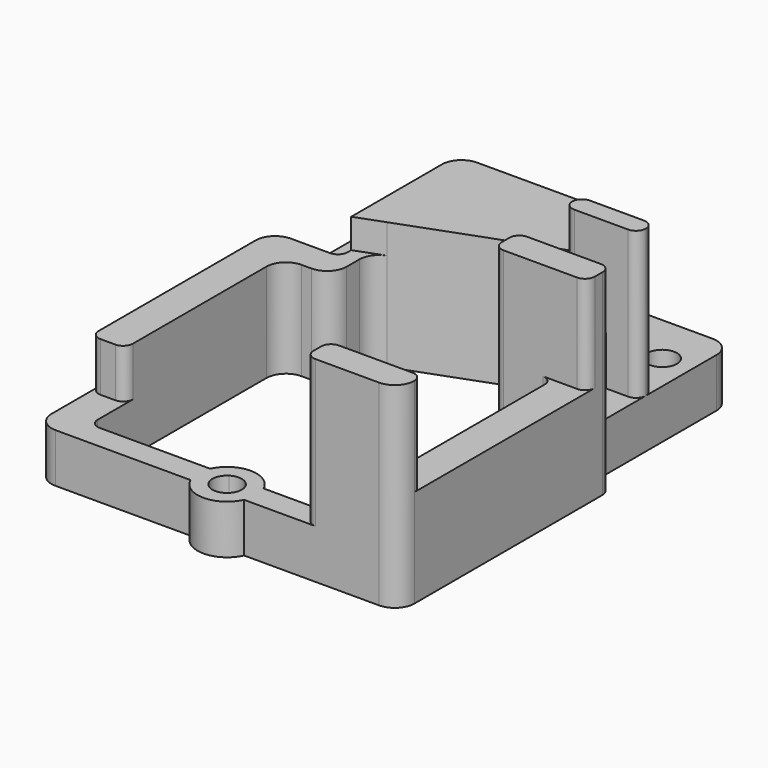
from build123d import *

# Parameters (mm, degrees)
F1_DEPTH = 2
F0_R     = 3
F0_R_2   = 1.5
F2_DEPTH = 5
F4_DEPTH = 5
F5_DEPTH = 8
F6_DEPTH = 15
F7_DEPTH = 15
F3_W     = 1
F3_H     = 6
F8_DEPTH = 5


with BuildPart() as f1:
    # F0 (on Top) → F1 (new body)
    with BuildSketch(Plane.XY):
        with BuildLine():
            Line((-14, -20), (-2.7258296596, -20))
            ThreePointArc((-2.7258296596, -20), (0, -18.2529376149), (2.7258296596, -20))
            Line((2.7258296596, -20), (14, -20))
            ThreePointArc((14, -20), (14.7071067812, -19.7071067812), (15, -19))
            Line((15, -19), (15, -15.5))
            ThreePointArc((15, -15.5), (14.4142135624, -16.9142135624), (13, -17.5))
            Line((13, -17.5), (-13, -17.5))
            ThreePointArc((-13, -17.5), (-14.4142135624, -16.9142135624), (-15, -15.5))
            Line((-15, -15.5), (-15, -19))
            ThreePointArc((-15, -19), (-14.7071067812, -19.7071067812), (-14, -20))
        make_face()
    extrude(amount=F1_DEPTH)

    # F0 (on Top) → F2 (join)
    with BuildSketch(Plane.XY):
        with BuildLine():
            ThreePointArc((16.5, 20.5), (15.9142135624, 21.9142135624), (14.5, 22.5))
            Line((14.5, 22.5), (-16.5, 22.5))
            ThreePointArc((-16.5, 22.5), (-17.9142135624, 21.9142135624), (-18.5, 20.5))
            Line((-18.5, 20.5), (-18.5, 17.3358949354))
            Line((-18.5, 17.3358949354), (-18.5, -20.5))
            ThreePointArc((-18.5, -20.5), (-17.9142135624, -21.9142135624), (-16.5, -22.5))
            Line((-16.5, -22.5), (-2.7285225687, -22.5))
            ThreePointArc((-2.7285225687, -22.5), (-2.9999982596, -21.2497061259), (-2.7258296596, -20))
            Line((-2.7258296596, -20), (-14, -20))
            ThreePointArc((-14, -20), (-14.7071067812, -19.7071067812), (-15, -19))
            Line((-15, -19), (-15, -15.5))
            Line((-15, -15.5), (-15, 2.5))
            ThreePointArc((-15, 2.5), (-14.4142135624, 3.9142135624), (-13, 4.5))
            Line((-13, 4.5), (-12, 4.5))
            ThreePointArc((-12, 4.5), (-10.5857864376, 5.0857864376), (-10, 6.5))
            Line((-10, 6.5), (-10, 8.1054256072))
            ThreePointArc((-10, 8.1054256072), (-9.6405519552, 9.2493614806), (-8.6914107177, 9.9821118409))
            Line((-8.6914107177, 9.9821118409), (6.3085892823, 15.5084276303))
            ThreePointArc((6.3085892823, 15.5084276303), (8.1439358734, 15.2722933519), (9, 13.6317413967))
            Line((9, 13.6317413967), (9, 2.5))
            ThreePointArc((9, 2.5), (9.2928932188, 1.7928932188), (10, 1.5))
            Line((10, 1.5), (14, 1.5))
            ThreePointArc((14, 1.5), (14.7071067812, 1.2071067812), (15, 0.5))
            Line((15, 0.5), (15, -15.5))
            Line((15, -15.5), (15, -19))
            ThreePointArc((15, -19), (14.7071067812, -19.7071067812), (14, -20))
            Line((14, -20), (2.7258296596, -20))
            ThreePointArc((2.7258296596, -20), (2.9306559828, -20.6116455515), (3, -21.2529376149))
            ThreePointArc((3, -21.2529376149), (2.9313450587, -21.8910725121), (2.7285225687, -22.5))
            Line((2.7285225687, -22.5), (16.5, -22.5))
            ThreePointArc((16.5, -22.5), (17.9142135624, -21.9142135624), (18.5, -20.5))
            Line((18.5, -20.5), (18.5, 3.5))
            ThreePointArc((18.5, 3.5), (18.2071067812, 4.2071067812), (17.5, 4.5))
            ThreePointArc((17.5, 4.5), (16.7928932188, 4.7928932188), (16.5, 5.5))
            Line((16.5, 5.5), (16.5, 17.3358949354))
            Line((16.5, 17.3358949354), (16.5, 20.5))
        make_face()
        with BuildLine():
            ThreePointArc((-12.5, 17.3358949354), (-15.5, 14.3358949354), (-18.5, 17.3358949354))
            ThreePointArc((-18.5, 17.3358949354), (-15.5, 20.3358949354), (-12.5, 17.3358949354))
        make_face(mode=Mode.SUBTRACT)
        with Locations((13.5, 17.3358949354)):
            Circle(F0_R, mode=Mode.SUBTRACT)
        with BuildLine():
            ThreePointArc((-2.7258296596, -20), (-2.9999982596, -21.2497061259), (-2.7285225687, -22.5))
            Line((-2.7285225687, -22.5), (-0.8335678783, -22.5))
            ThreePointArc((-0.8335678783, -22.5), (-1.4999905856, -21.2476231938), (-0.8247104541, -20))
            Line((-0.8247104541, -20), (-2.7258296596, -20))
        make_face()
        with BuildLine():
            Line((-0.8335678783, -22.5), (-2.7285225687, -22.5))
            ThreePointArc((-2.7285225687, -22.5), (0, -24.2529376149), (2.7285225687, -22.5))
            Line((2.7285225687, -22.5), (0.8335678783, -22.5))
            ThreePointArc((0.8335678783, -22.5), (0, -22.7529376149), (-0.8335678783, -22.5))
        make_face()
        with BuildLine():
            Line((0.8335678783, -22.5), (2.7285225687, -22.5))
            ThreePointArc((2.7285225687, -22.5), (2.9313450587, -21.8910725121), (3, -21.2529376149))
            ThreePointArc((3, -21.2529376149), (2.9306559828, -20.6116455515), (2.7258296596, -20))
            Line((2.7258296596, -20), (0.8247104541, -20))
            ThreePointArc((0.8247104541, -20), (1.3204290366, -20.5412725537), (1.5, -21.2529376149))
            ThreePointArc((1.5, -21.2529376149), (1.3229421411, -21.9599199989), (0.8335678783, -22.5))
        make_face()
        with BuildLine():
            ThreePointArc((2.7258296596, -20), (0, -18.2529376149), (-2.7258296596, -20))
            Line((-2.7258296596, -20), (-0.8247104541, -20))
            ThreePointArc((-0.8247104541, -20), (0, -19.7529376149), (0.8247104541, -20))
            Line((0.8247104541, -20), (2.7258296596, -20))
        make_face()
        with BuildLine():
            ThreePointArc((-12.5, 17.3358949354), (-15.5, 20.3358949354), (-18.5, 17.3358949354))
            ThreePointArc((-18.5, 17.3358949354), (-15.5, 14.3358949354), (-12.5, 17.3358949354))
        make_face()
        with Locations((-15.5, 17.3358949354)):
            Circle(F0_R_2, mode=Mode.SUBTRACT)
        with Locations((13.5, 17.3358949354)):
            Circle(F0_R)
        with Locations((13.5, 17.3358949354)):
            Circle(F0_R_2, mode=Mode.SUBTRACT)
    extrude(amount=F2_DEPTH)

    # F3 (on face) → F4 (join)
    with BuildSketch(Plane.XY.offset(5)):
        with BuildLine():
            ThreePointArc((-18.5, -14.5), (-18.2071067812, -15.2071067812), (-17.5, -15.5))
            Line((-17.5, -15.5), (-16, -15.5))
            ThreePointArc((-16, -15.5), (-15.2928932188, -15.2071067812), (-15, -14.5))
            Line((-15, -14.5), (-15, 2.5))
            ThreePointArc((-15, 2.5), (-14.4142135624, 3.9142135624), (-13, 4.5))
            Line((-13, 4.5), (-12, 4.5))
            ThreePointArc((-12, 4.5), (-10.5857864376, 5.0857864376), (-10, 6.5))
            Line((-10, 6.5), (-10, 8.1054256072))
            ThreePointArc((-10, 8.1054256072), (-9.6405519552, 9.2493614806), (-8.6914107177, 9.9821118409))
            Line((-8.6914107177, 9.9821118409), (-11.5, 8.9473684211))
            Line((-11.5, 8.9473684211), (-11.5, 8.5))
            ThreePointArc((-11.5, 8.5), (-11.7928932188, 7.7928932188), (-12.5, 7.5))
            Line((-12.5, 7.5), (-16.5, 7.5))
            ThreePointArc((-16.5, 7.5), (-17.9142135624, 6.9142135624), (-18.5, 5.5))
            Line((-18.5, 5.5), (-18.5, -14.5))
        make_face()
    extrude(amount=F4_DEPTH)

    # F3 (on face) → F5 (join)
    with BuildSketch(Plane.XY.offset(5)):
        with BuildLine():
            Line((4.5, 22.5), (-9.5, 22.5))
            ThreePointArc((-9.5, 22.5), (-10.9142135624, 21.9142135624), (-11.5, 20.5))
            Line((-11.5, 20.5), (-11.5, 8.9473684211))
            Line((-11.5, 8.9473684211), (-8.6914107177, 9.9821118409))
            Line((-8.6914107177, 9.9821118409), (6.3085892823, 15.5084276303))
            Line((6.3085892823, 15.5084276303), (6.5, 15.5789473684))
            Line((6.5, 15.5789473684), (6.5, 20.5))
            ThreePointArc((6.5, 20.5), (5.9142135624, 21.9142135624), (4.5, 22.5))
        make_face()
    extrude(amount=F5_DEPTH)

    # F3 (on face) → F6 (join)
    with BuildSketch(Plane.XY.offset(5)):
        with BuildLine():
            ThreePointArc((9, -21.5), (9.2928932188, -22.2071067812), (10, -22.5))
            Line((10, -22.5), (16.5, -22.5))
            ThreePointArc((16.5, -22.5), (17.9142135624, -21.9142135624), (18.5, -20.5))
            ThreePointArc((18.5, -20.5), (18.2071067812, -19.7928932188), (17.5, -19.5))
            Line((17.5, -19.5), (14.8660254038, -19.5))
            ThreePointArc((14.8660254038, -19.5), (14.5, -19.8660254038), (14, -20))
            Line((14, -20), (9.1339745962, -20))
            ThreePointArc((9.1339745962, -20), (9.0340741737, -20.2411809549), (9, -20.5))
            Line((9, -20.5), (9, -21.5))
        make_face()
        with BuildLine():
            ThreePointArc((10, -19.5), (9.5, -19.6339745962), (9.1339745962, -20))
            Line((9.1339745962, -20), (14, -20))
            ThreePointArc((14, -20), (14.5, -19.8660254038), (14.8660254038, -19.5))
            Line((14.8660254038, -19.5), (10, -19.5))
        make_face()
    extrude(amount=F6_DEPTH)

    # F3 (on face) → F7 (join)
    with BuildSketch(Plane.XY.offset(5)):
        with BuildLine():
            ThreePointArc((15.5, 10.5), (16.2071067812, 10.7928932188), (16.5, 11.5))
            ThreePointArc((16.5, 11.5), (16.2071067812, 12.2071067812), (15.5, 12.5))
            Line((15.5, 12.5), (10, 12.5))
            ThreePointArc((10, 12.5), (9.2928932188, 12.2071067812), (9, 11.5))
            ThreePointArc((9, 11.5), (9.2928932188, 10.7928932188), (10, 10.5))
            Line((10, 10.5), (12.25, 10.5))
            Line((12.25, 10.5), (13.25, 10.5))
            Line((13.25, 10.5), (15.5, 10.5))
        make_face()
        with BuildLine():
            ThreePointArc((17.5, 1.5), (18.2071067812, 1.7928932188), (18.5, 2.5))
            Line((18.5, 2.5), (18.5, 3.5))
            ThreePointArc((18.5, 3.5), (18.2071067812, 4.2071067812), (17.5, 4.5))
            Line((17.5, 4.5), (13.25, 4.5))
            Line((13.25, 4.5), (12.25, 4.5))
            Line((12.25, 4.5), (10, 4.5))
            ThreePointArc((10, 4.5), (9.2928932188, 4.2071067812), (9, 3.5))
            Line((9, 3.5), (9, 2.5))
            ThreePointArc((9, 2.5), (9.2928932188, 1.7928932188), (10, 1.5))
            Line((10, 1.5), (14, 1.5))
            Line((14, 1.5), (17.5, 1.5))
        make_face()
    extrude(amount=F7_DEPTH)

    # F3 (on face) → F8 (join)
    with BuildSketch(Plane.XY.offset(5)):
        with Locations((12.75, 7.5)):
            Rectangle(F3_W, F3_H)
        with BuildLine():
            ThreePointArc((17.5, -19.5), (18.2071067812, -19.7928932188), (18.5, -20.5))
            Line((18.5, -20.5), (18.5, 2.5))
            ThreePointArc((18.5, 2.5), (18.2071067812, 1.7928932188), (17.5, 1.5))
            Line((17.5, 1.5), (14, 1.5))
            ThreePointArc((14, 1.5), (14.7071067812, 1.2071067812), (15, 0.5))
            Line((15, 0.5), (15, -19))
            ThreePointArc((15, -19), (14.9659258263, -19.2588190451), (14.8660254038, -19.5))
            Line((14.8660254038, -19.5), (17.5, -19.5))
        make_face()
    extrude(amount=F8_DEPTH)


solid = f1.part
